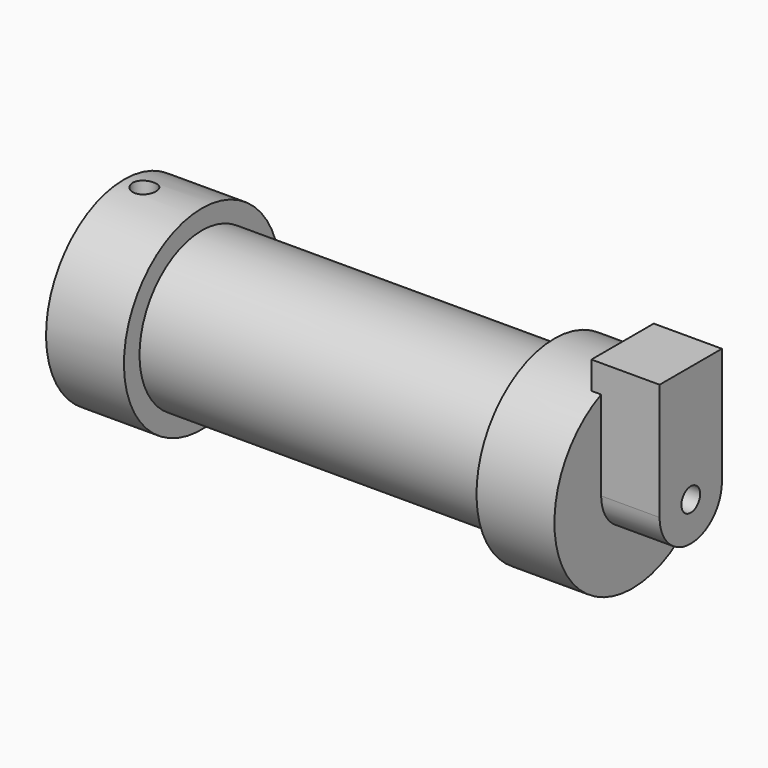
from build123d import *

# Parameters (mm, degrees)
F0_W          = 5.842
F0_H          = 12.7
F0_R          = 3.175
F2_DEPTH      = 3.175
F3_R          = 1.524
F4_DEPTH      = 7.62
F4_DEPTH_BACK = 1.27
F5_DEPTH      = 56.134
F6_R          = 1.524
F7_DEPTH      = 17.78


with BuildPart() as f1:
    # F0 (on Front) → F1 (revolve)
    with BuildSketch(Plane.XZ):
        Polygon((5.842, 12.7), (5.842, 0), (66.294, 0), (66.294, 12.7), (56.134, 12.7), (56.134, 10.16), (10.16, 10.16), (10.16, 12.7), align=None)
        with Locations((2.921, 6.35)):
            Rectangle(F0_W, F0_H)
    revolve(axis=Axis((33.147, 0, 0), (-1, 0, 0)))

    # F3 (on face) → F4 (join, two sides)
    with BuildSketch(Plane.YZ.offset(66.294)) as f4_sk:
        with BuildLine():
            ThreePointArc((-5.08, 11.6397422652), (0, 12.7), (5.08, 11.6397422652))
            Line((5.08, 11.6397422652), (5.08, 15.24))
            Line((5.08, 15.24), (-5.08, 15.24))
            Line((-5.08, 15.24), (-5.08, 11.6397422652))
        make_face()
        with BuildLine():
            ThreePointArc((-5.08, 0), (0, 5.08), (5.08, 0))
            Line((5.08, 0), (5.08, 11.6397422652))
            ThreePointArc((5.08, 11.6397422652), (0, 12.7), (-5.08, 11.6397422652))
            Line((-5.08, 11.6397422652), (-5.08, 0))
        make_face()
        with BuildLine():
            ThreePointArc((-5.08, 0), (0, -5.08), (5.08, 0))
            ThreePointArc((5.08, 0), (0, 5.08), (-5.08, 0))
        make_face()
        Circle(F3_R, mode=Mode.SUBTRACT)
    extrude(amount=F4_DEPTH)
    extrude(f4_sk.sketch, amount=-F4_DEPTH_BACK)

    # F5 (cut, through all): a face of the model
    f5_faces = [f1.faces().sort_by_distance(p)[0] for p in [
        (66.294, 0, 0),
    ]]
    extrude(f5_faces, amount=-F5_DEPTH, mode=Mode.SUBTRACT)


with BuildPart() as f2:
    # F0 (on Front) → F2 (new body, symmetric)
    with BuildSketch(Plane.XZ):
        with BuildLine():
            Line((-0.9398, 0), (0, 0))
            Line((0, 0), (0, 12.7))
            Line((0, 12.7), (5.842, 12.7))
            Line((5.842, 12.7), (5.842, 15.24))
            Line((5.842, 15.24), (-0.508, 15.24))
            Line((-0.508, 15.24), (-10.8806298187, 3.8475430269))
            ThreePointArc((-10.8806298187, 3.8475430269), (-4.5919612295, 5.3297205562), (-0.9398, 0))
        make_face()
        with BuildLine():
            ThreePointArc((-8.1826630726, -5.5069827884), (-3.1957909266, -4.5493385486), (-0.9398, 0))
            ThreePointArc((-0.9398, 0), (-4.5919612295, 5.3297205562), (-10.8806298187, 3.8475430269))
            ThreePointArc((-10.8806298187, 3.8475430269), (-12.1459778134, -1.5837270034), (-8.1826630726, -5.5069827884))
        make_face()
        with Locations((-6.6548, 0)):
            Circle(F0_R, mode=Mode.SUBTRACT)
        with BuildLine():
            Line((5.842, 0), (0, 0))
            Line((0, 0), (-0.9398, 0))
            ThreePointArc((-0.9398, 0), (-3.1957909266, -4.5493385486), (-8.1826630726, -5.5069827884))
            Line((-8.1826630726, -5.5069827884), (5.842, -9.398))
            Line((5.842, -9.398), (5.842, 0))
        make_face()
    extrude(amount=F2_DEPTH, both=True)


with BuildPart() as f7_tool:
    # F6 (on face) → F7 (new body)
    with BuildSketch(Plane.XY.offset(15.24)):
        with Locations((2.667, 0)):
            Circle(F6_R)
    extrude(amount=-F7_DEPTH)


with BuildPart() as f1_1:
    add(f1.part)

    # F7: cut by f7_tool
    add(f7_tool.part, mode=Mode.SUBTRACT)


with BuildPart() as f2_1:
    add(f2.part)

    # F7: cut by f7_tool
    add(f7_tool.part, mode=Mode.SUBTRACT)


solid = f1_1.part
